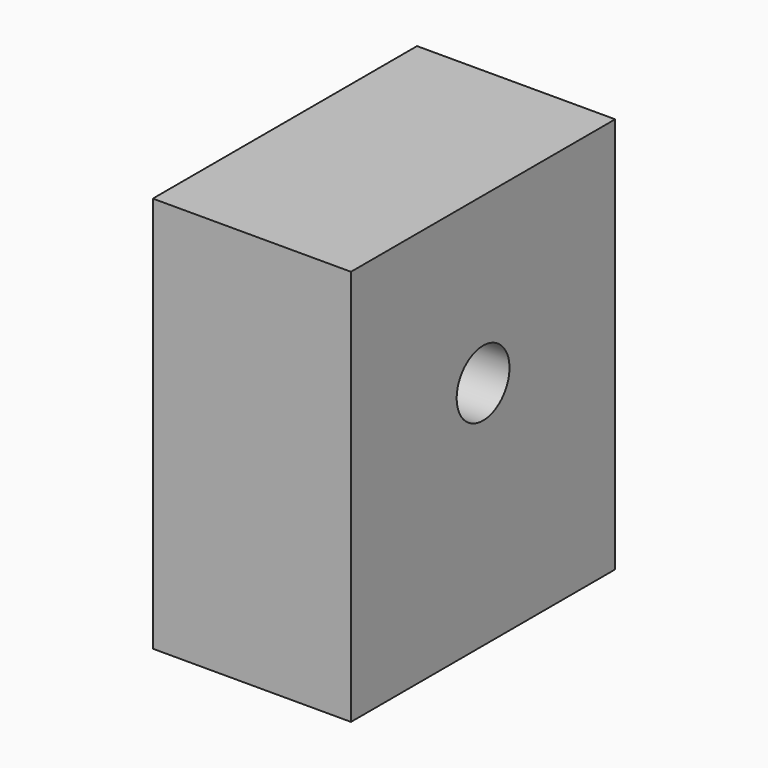
from build123d import *

# Parameters (mm, degrees)
F0_W     = 76.2
F0_H     = 127
F1_DEPTH = 152.4
F2_R     = 12.7
F3_DEPTH = 76.201


with BuildPart() as f1:
    # F0 (on Top) → F1 (new body)
    with BuildSketch(Plane.XY):
        with Locations((64.436514, 107.071249)):
            Rectangle(F0_W, F0_H)
    extrude(amount=F1_DEPTH)

    # F2 (on face) → F3 (cut, through all)
    with BuildSketch(Plane(origin=(26.336514, 0, 0), x_dir=(0, -1, 0), z_dir=(-1, 0, 0))):
        with Locations((-107.071249, 88.9)):
            Circle(F2_R)
    extrude(amount=-F3_DEPTH, mode=Mode.SUBTRACT)


solid = f1.part
